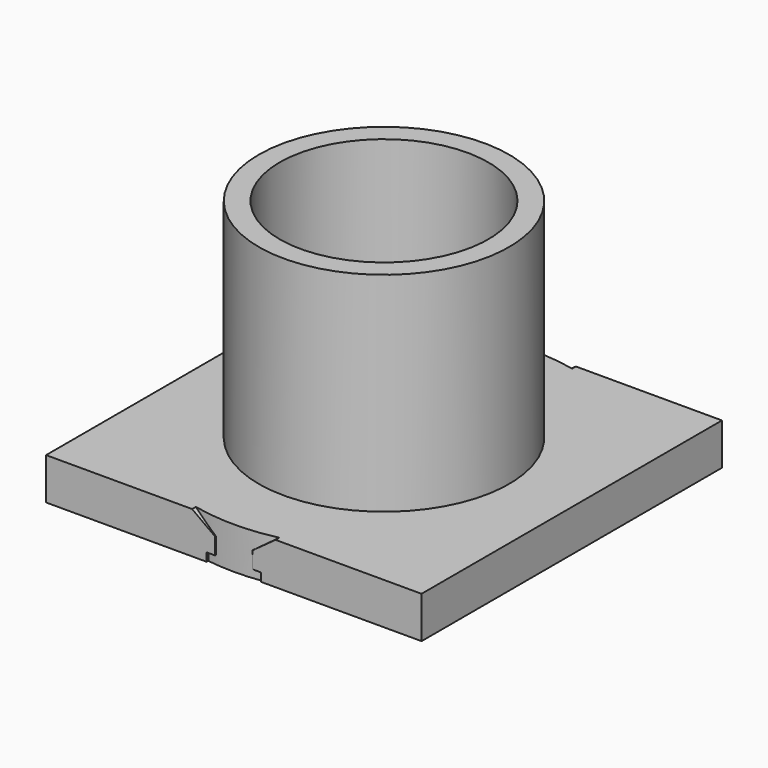
from build123d import *

# Parameters (mm, degrees)
F0_W     = 5
F0_H     = 50
F0_W_2   = 15
F0_H_2   = 10
F2_DEPTH = 45


with BuildPart() as f1:
    # F0 (on Front) → F1 (revolve)
    with BuildSketch(Plane.XZ):
        with Locations((-27.5, 25)):
            Rectangle(F0_W, F0_H)
        Polygon((-25, 0), (-30, 0), (-45, 0), (-45, -10), (-30, -10), (-6.5, -10), (-6.5, -8), (-4.5, -8), (-4.5, -4), (-10, 0), align=None)
    revolve(axis=Axis((0, 0, -5), (0, 0, -1)))

    # F0 (on Front) → F2 (join, symmetric)
    with BuildSketch(Plane.XZ):
        Polygon((-25, 0), (-30, 0), (-45, 0), (-45, -10), (-30, -10), (-6.5, -10), (-6.5, -8), (-4.5, -8), (-4.5, -4), (-10, 0), align=None)
        Polygon((25, 0), (10, 0), (4.5, -4), (4.5, -8), (6.5, -8), (6.5, -10), (30, -10), (30, 0), align=None)
        with Locations((37.5, -5)):
            Rectangle(F0_W_2, F0_H_2)
    extrude(amount=F2_DEPTH, both=True)


solid = f1.part
